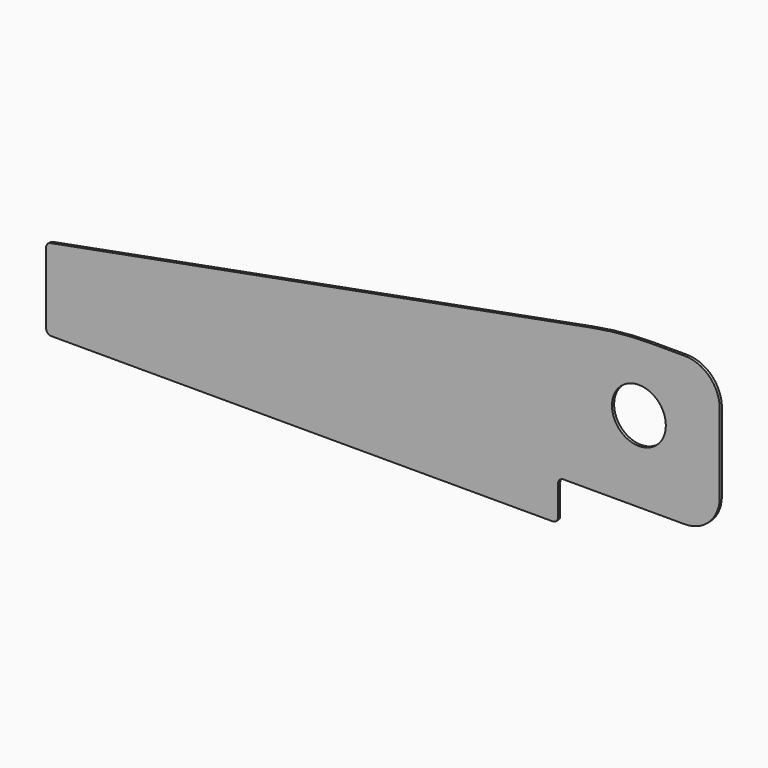
from build123d import *

# Parameters (mm, degrees)
F0_R     = 6.35
F1_DEPTH = 0.64516


with BuildPart() as f1:
    # F0 (on Front) → F1 (new body)
    with BuildSketch(Plane.XZ):
        with BuildLine():
            ThreePointArc((0, 1.27), (0.371974, 0.371974), (1.27, 0))
            Line((1.27, 0), (119.38, 0))
            ThreePointArc((119.38, 0), (120.278026, 0.371974), (120.65, 1.27))
            Line((120.65, 1.27), (120.65, 8.255))
            ThreePointArc((120.65, 8.255), (121.021974, 9.153026), (121.92, 9.525))
            Line((121.92, 9.525), (150.495, 9.525))
            ThreePointArc((150.495, 9.525), (156.332166, 11.942834), (158.75, 17.78))
            Line((158.75, 17.78), (158.75, 36.195))
            ThreePointArc((158.75, 36.195), (156.332166, 42.032166), (150.495, 44.45))
            Line((150.495, 44.45), (142.54871, 44.45))
            ThreePointArc((142.54871, 44.45), (135.497057, 44.123014), (128.505923, 43.144861))
            Line((128.505923, 43.144861), (1.035954, 19.244241))
            ThreePointArc((1.035954, 19.244241), (0.292723, 18.807061), (0, 17.995994))
            Line((0, 17.995994), (0, 1.27))
        make_face()
        with Locations((139.7, 28.575)):
            Circle(F0_R, mode=Mode.SUBTRACT)
    extrude(amount=F1_DEPTH)


solid = f1.part
